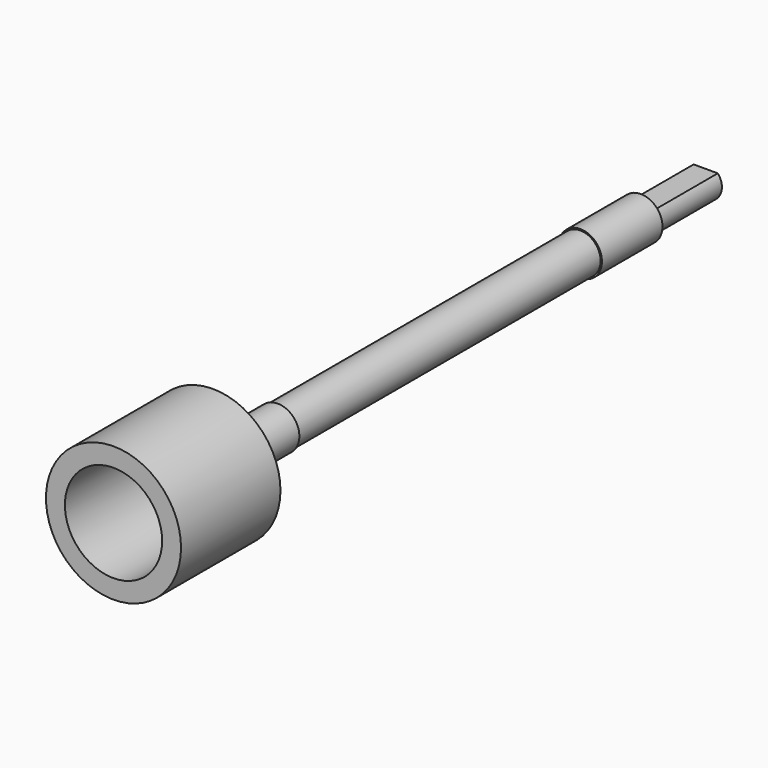
from build123d import *

# Parameters (mm, degrees)
F0_R      = 12.5
F1_DEPTH  = 5
F2_R      = 12.5
F2_R_2    = 9
F3_DEPTH  = 18
F4_R      = 4
F5_DEPTH  = 15
F6_R      = 3.75
F7_DEPTH  = 70
F8_R      = 4
F9_DEPTH  = 14
F11_DEPTH = 15


with BuildPart() as f1:
    # F0 (on Front) → F1 (new body)
    with BuildSketch(Plane.XZ):
        Circle(F0_R)
    extrude(amount=F1_DEPTH)

    # F2 (on face) → F3 (join)
    with BuildSketch(Plane.XZ.offset(5)):
        Circle(F2_R)
        Circle(F2_R_2, mode=Mode.SUBTRACT)
    extrude(amount=F3_DEPTH)

    # F4 (on face) → F5 (join)
    with BuildSketch(Plane(origin=(0, 0, 0), x_dir=(-1, 0, 0), z_dir=(0, 1, 0))):
        Circle(F4_R)
    extrude(amount=F5_DEPTH)

    # F6 (on face) → F7 (join)
    with BuildSketch(Plane(origin=(0, 15, 0), x_dir=(-1, 0, 0), z_dir=(0, 1, 0))):
        Circle(F6_R)
    extrude(amount=F7_DEPTH)

    # F8 (on face) → F9 (join)
    with BuildSketch(Plane(origin=(0, 85, 0), x_dir=(-1, 0, 0), z_dir=(0, 1, 0))):
        Circle(F8_R)
    extrude(amount=F9_DEPTH)

    # F10 (on face) → F11 (join)
    with BuildSketch(Plane(origin=(0, 99, 0), x_dir=(-1, 0, 0), z_dir=(0, 1, 0))):
        with BuildLine():
            Line((2.236068, 2), (-2.236068, 2))
            ThreePointArc((-2.236068, 2), (0, -3), (2.236068, 2))
        make_face()
    extrude(amount=F11_DEPTH)


solid = f1.part
